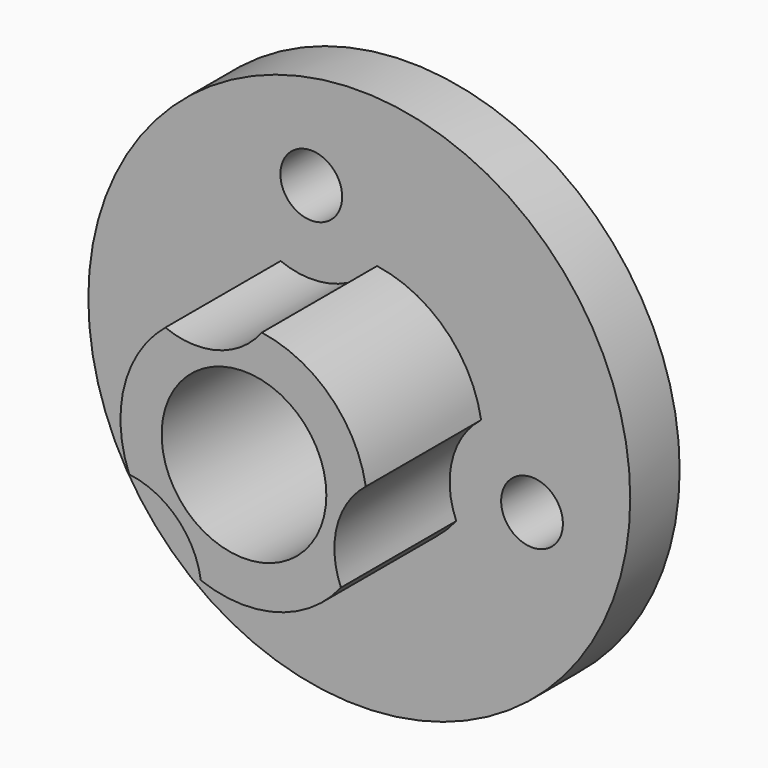
from build123d import *

# Parameters (mm, degrees)
F0_R     = 13.160254
F0_R_2   = 1.5
F0_R_3   = 4
F1_DEPTH = 3
F2_R     = 6
F2_R_2   = 4
F3_DEPTH = 7
F4_R     = 4
F5_DEPTH = 25


with BuildPart() as f1:
    # F0 (on Front) → F1 (new body)
    with BuildSketch(Plane.XZ):
        Circle(F0_R)
        with Locations((-6.056582, -6.190139)):
            Circle(F0_R_2, mode=Mode.SUBTRACT)
        with Locations((8.389108, -2.150084)):
            Circle(F0_R_2, mode=Mode.SUBTRACT)
        with Locations((-2.332527, 8.340223)):
            Circle(F0_R_2, mode=Mode.SUBTRACT)
        Circle(F0_R_3, mode=Mode.SUBTRACT)
    extrude(amount=F1_DEPTH)

    # F2 (on face) → F3 (join)
    with BuildSketch(Plane.XZ.offset(3)):
        Circle(F2_R)
        Circle(F2_R_2, mode=Mode.SUBTRACT)
    extrude(amount=F3_DEPTH)

    # F4 (on face) → F5 (cut)
    with BuildSketch(Plane.XZ.offset(3)):
        with Locations((-2.332527, 8.340223)):
            Circle(F4_R)
        with Locations((8.389108, -2.150084)):
            Circle(F4_R)
        with Locations((-6.056582, -6.190139)):
            Circle(F4_R)
    extrude(amount=F5_DEPTH, mode=Mode.SUBTRACT)


solid = f1.part
